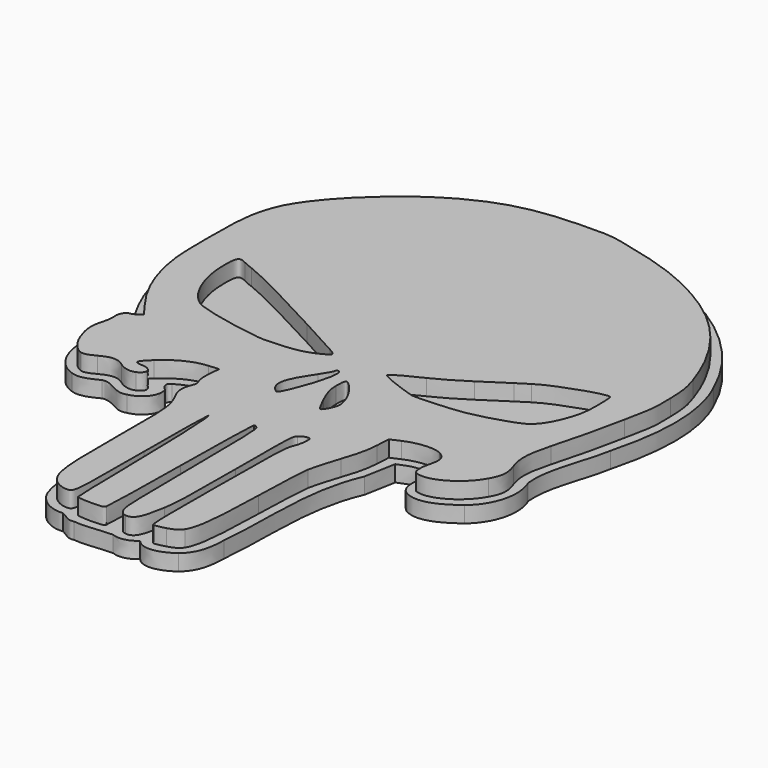
from build123d import *

# Parameters (mm, degrees)
F1_DEPTH = 3
F3_DEPTH = 3


with BuildPart() as f1:
    # F0 (on Top) → F1 (new body)
    with BuildSketch(Plane.XY):
        with BuildLine():
            Line((-14.934392, -11.901192), (-15.095208, -13.848401))
            add(Edge.make_bspline(
                [(-14.895178, -16.642277), (-15.13398, -16.08197), (-15.201631, -15.137025), (-15.095208, -13.848401)],
                knots=[0, 0, 0, 0, 1, 1, 1, 1], degree=3))
            add(Edge.make_bspline(
                [(-14.919957, -18.440631), (-14.603258, -17.659022), (-14.598833, -17.337636), (-14.895178, -16.642277)],
                knots=[0, 0, 0, 0, 1, 1, 1, 1], degree=3))
            add(Edge.make_bspline(
                [(-14.731774, -22.297604), (-15.400604, -20.994426), (-15.460158, -19.773843), (-14.919957, -18.440631)],
                knots=[0, 0, 0, 0, 1, 1, 1, 1], degree=3))
            add(Edge.make_bspline(
                [(-13.280426, -37.244499), (-13.2043, -25.74253), (-13.260445, -25.164417), (-14.731774, -22.297604)],
                knots=[0, 0, 0, 0, 1, 1, 1, 1], degree=3))
            add(Edge.make_bspline(
                [(-11.923829, -53.323196), (-13.138079, -51.3585), (-13.356694, -48.767415), (-13.280426, -37.244499)],
                knots=[0, 0, 0, 0, 1, 1, 1, 1], degree=3))
            add(Edge.make_bspline(
                [(-8.711181, -55.16561), (-9.85685, -55.16561), (-11.294824, -54.340951), (-11.923829, -53.323196)],
                knots=[0, 0, 0, 0, 1, 1, 1, 1], degree=3))
            add(Edge.make_bspline(
                [(-7.266276, -38.881397), (-7.270622, -55.069147), (-7.279174, -55.16561), (-8.711181, -55.16561)],
                knots=[0, 0, 0, 0, 1, 1, 1, 1], degree=3))
            add(Edge.make_bspline(
                [(-7.032836, -24.096579), (-7.159006, -23.970411), (-7.264055, -30.62358), (-7.266276, -38.881397)],
                knots=[0, 0, 0, 0, 1, 1, 1, 1], degree=3))
            add(Edge.make_bspline(
                [(-6.165991, -44.647617), (-6.309441, -32.794408), (-6.660616, -24.468782), (-7.032836, -24.096579)],
                knots=[0, 0, 0, 0, 1, 1, 1, 1], degree=3))
            add(Edge.make_bspline(
                [(-5.85435, -56.007062), (-5.952055, -55.848969), (-6.092294, -50.737219), (-6.165991, -44.647617)],
                knots=[0, 0, 0, 0, 1, 1, 1, 1], degree=3))
            add(Edge.make_bspline(
                [(-3.324665, -56.294499), (-4.618287, -56.294499), (-5.756644, -56.165151), (-5.85435, -56.007062)],
                knots=[0, 0, 0, 0, 1, 1, 1, 1], degree=3))
            add(Edge.make_bspline(
                [(-0.75918, -55.80061), (-0.93801, -56.214399), (-1.35409, -56.294499), (-3.324665, -56.294499)],
                knots=[0, 0, 0, 0, 1, 1, 1, 1], degree=3))
            add(Edge.make_bspline(
                [(-0.370543, -39.026244), (-0.466897, -47.980506), (-0.641784, -55.528971), (-0.75918, -55.80061)],
                knots=[0, 0, 0, 0, 1, 1, 1, 1], degree=3))
            add(Edge.make_bspline(
                [(0.017368, -22.533042), (-0.09963, -22.65004), (-0.27419, -30.071979), (-0.370543, -39.026244)],
                knots=[0, 0, 0, 0, 1, 1, 1, 1], degree=3))
            add(Edge.make_bspline(
                [(0.692797, -22.783023), (0.438309, -22.528538), (0.134367, -22.416044), (0.017368, -22.533042)],
                knots=[0, 0, 0, 0, 1, 1, 1, 1], degree=3))
            add(Edge.make_bspline(
                [(1.27293, -38.711781), (1.167718, -24.854692), (1.107364, -23.197594), (0.692797, -22.783023)],
                knots=[0, 0, 0, 0, 1, 1, 1, 1], degree=3))
            add(Edge.make_bspline(
                [(1.88746, -55.16561), (1.435484, -54.267495), (1.379703, -52.77396), (1.27293, -38.711781)],
                knots=[0, 0, 0, 0, 1, 1, 1, 1], degree=3))
            add(Edge.make_bspline(
                [(3.152115, -56.244337), (2.603368, -56.179316), (2.242849, -55.871798), (1.88746, -55.16561)],
                knots=[0, 0, 0, 0, 1, 1, 1, 1], degree=3))
            add(Edge.make_bspline(
                [(6.068216, -50.850382), (5.356511, -55.192484), (4.68938, -56.426486), (3.152115, -56.244337)],
                knots=[0, 0, 0, 0, 1, 1, 1, 1], degree=3))
            add(Edge.make_bspline(
                [(6.553579, -34.924026), (6.542741, -45.739041), (6.459774, -48.461498), (6.068216, -50.850382)],
                knots=[0, 0, 0, 0, 1, 1, 1, 1], degree=3))
            add(Edge.make_bspline(
                [(7.131096, -21.315524), (6.583314, -21.862471), (6.566265, -22.264214), (6.553579, -34.924026)],
                knots=[0, 0, 0, 0, 1, 1, 1, 1], degree=3))
            add(Edge.make_bspline(
                [(8.401096, -20.672664), (8.01304, -20.716265), (7.44154, -21.005551), (7.131096, -21.315524)],
                knots=[0, 0, 0, 0, 1, 1, 1, 1], degree=3))
            add(Edge.make_bspline(
                [(9.075573, -21.722277), (9.104314, -20.678275), (9.053588, -20.599349), (8.401096, -20.672664)],
                knots=[0, 0, 0, 0, 1, 1, 1, 1], degree=3))
            add(Edge.make_bspline(
                [(8.5206, -24.121166), (8.808743, -23.422666), (9.058479, -22.343166), (9.075573, -21.722277)],
                knots=[0, 0, 0, 0, 1, 1, 1, 1], degree=3))
            add(Edge.make_bspline(
                [(7.895543, -40.663415), (7.988921, -26.566407), (8.037023, -25.293435), (8.5206, -24.121166)],
                knots=[0, 0, 0, 0, 1, 1, 1, 1], degree=3))
            add(Edge.make_bspline(
                [(8.17225, -56.080671), (7.861272, -55.961336), (7.812287, -53.23203), (7.895543, -40.663415)],
                knots=[0, 0, 0, 0, 1, 1, 1, 1], degree=3))
            add(Edge.make_bspline(
                [(10.322809, -55.68149), (9.347833, -55.980792), (8.380081, -56.160421), (8.17225, -56.080671)],
                knots=[0, 0, 0, 0, 1, 1, 1, 1], degree=3))
            add(Edge.make_bspline(
                [(12.62288, -54.270088), (12.214248, -54.942031), (11.696331, -55.259842), (10.322809, -55.68149)],
                knots=[0, 0, 0, 0, 1, 1, 1, 1], degree=3))
            add(Edge.make_bspline(
                [(14.327757, -39.361166), (14.093512, -49.029253), (13.695994, -52.505497), (12.62288, -54.270088)],
                knots=[0, 0, 0, 0, 1, 1, 1, 1], degree=3))
            add(Edge.make_bspline(
                [(14.862311, -28.462686), (14.690534, -29.412127), (14.449984, -34.316444), (14.327757, -39.361166)],
                knots=[0, 0, 0, 0, 1, 1, 1, 1], degree=3))
            add(Edge.make_bspline(
                [(16.470972, -22.818242), (15.757986, -24.973243), (15.034088, -27.513243), (14.862311, -28.462686)],
                knots=[0, 0, 0, 0, 1, 1, 1, 1], degree=3))
            add(Edge.make_bspline(
                [(17.921081, -16.329166), (17.800182, -18.350461), (17.490187, -19.737668), (16.470972, -22.818242)],
                knots=[0, 0, 0, 0, 1, 1, 1, 1], degree=3))
            Line((17.921081, -16.329166), (18.074849, -13.758274))
            Line((18.074849, -13.758274), (19.799639, -12.989001))
            add(Edge.make_bspline(
                [(26.460292, -12.460379), (25.058362, -11.730038), (22.09506, -11.965223), (19.799639, -12.989001)],
                knots=[0, 0, 0, 0, 1, 1, 1, 1], degree=3))
            add(Edge.make_bspline(
                [(27.64899, -15.806208), (28.095717, -14.13594), (27.736662, -13.125308), (26.460292, -12.460379)],
                knots=[0, 0, 0, 0, 1, 1, 1, 1], degree=3))
            add(Edge.make_bspline(
                [(27.803873, -19.535193), (27.206759, -19.300537), (27.140575, -17.707113), (27.64899, -15.806208)],
                knots=[0, 0, 0, 0, 1, 1, 1, 1], degree=3))
            add(Edge.make_bspline(
                [(37.023472, -14.347254), (35.00034, -17.967028), (30.400256, -20.555531), (27.803873, -19.535193)],
                knots=[0, 0, 0, 0, 1, 1, 1, 1], degree=3))
            add(Edge.make_bspline(
                [(37.466132, -9.090688), (38.22356, -11.168013), (38.121235, -12.383146), (37.023472, -14.347254)],
                knots=[0, 0, 0, 0, 1, 1, 1, 1], degree=3))
            add(Edge.make_bspline(
                [(37.768107, -0.696721), (36.679982, -4.725667), (36.607652, -6.736226), (37.466132, -9.090688)],
                knots=[0, 0, 0, 0, 1, 1, 1, 1], degree=3))
            add(Edge.make_bspline(
                [(40.880479, 12.426612), (39.686098, 6.61674), (39.273884, 4.878643), (37.768107, -0.696721)],
                knots=[0, 0, 0, 0, 1, 1, 1, 1], degree=3))
            add(Edge.make_bspline(
                [(41.908781, 21.881056), (42.034461, 18.25552), (41.984677, 17.797781), (40.880479, 12.426612)],
                knots=[0, 0, 0, 0, 1, 1, 1, 1], degree=3))
            add(Edge.make_bspline(
                [(40.876556, 28.366407), (41.662878, 26.02937), (41.793409, 25.209258), (41.908781, 21.881056)],
                knots=[0, 0, 0, 0, 1, 1, 1, 1], degree=3))
            add(Edge.make_bspline(
                [(23.708087, 49.371921), (32.198127, 44.598954), (37.66572, 37.909389), (40.876556, 28.366407)],
                knots=[0, 0, 0, 0, 1, 1, 1, 1], degree=3))
            add(Edge.make_bspline(
                [(5.784238, 55.751469), (14.079189, 53.86466), (18.541902, 52.276269), (23.708087, 49.371921)],
                knots=[0, 0, 0, 0, 1, 1, 1, 1], degree=3))
            add(Edge.make_bspline(
                [(-2.400206, 56.234212), (2.508265, 56.365006), (3.289546, 56.318924), (5.784238, 55.751469)],
                knots=[0, 0, 0, 0, 1, 1, 1, 1], degree=3))
            add(Edge.make_bspline(
                [(-21.144355, 51.655194), (-15.261034, 54.826035), (-10.365517, 56.021964), (-2.400206, 56.234212)],
                knots=[0, 0, 0, 0, 1, 1, 1, 1], degree=3))
            add(Edge.make_bspline(
                [(-40.404294, 32.732758), (-38.283019, 38.402374), (-29.228543, 47.298184), (-21.144355, 51.655194)],
                knots=[0, 0, 0, 0, 1, 1, 1, 1], degree=3))
            add(Edge.make_bspline(
                [(-41.955252, 19.341056), (-41.976757, 26.955344), (-41.712626, 29.235931), (-40.404294, 32.732758)],
                knots=[0, 0, 0, 0, 1, 1, 1, 1], degree=3))
            add(Edge.make_bspline(
                [(-41.311396, 9.095549), (-41.854107, 11.749174), (-41.937568, 13.077281), (-41.955252, 19.341056)],
                knots=[0, 0, 0, 0, 1, 1, 1, 1], degree=3))
            add(Edge.make_bspline(
                [(-35.57826, -3.440325), (-38.690528, 0.671534), (-40.314985, 4.223524), (-41.311396, 9.095549)],
                knots=[0, 0, 0, 0, 1, 1, 1, 1], degree=3))
            Line((-35.57826, -3.440325), (-34.162033, -5.311422))
            Line((-34.162033, -5.311422), (-34.82324, -5.820017))
            add(Edge.make_bspline(
                [(-35.837228, -6.334889), (-35.6432, -6.331446), (-35.186906, -6.099747), (-34.82324, -5.820017)],
                knots=[0, 0, 0, 0, 1, 1, 1, 1], degree=3))
            add(Edge.make_bspline(
                [(-37.135994, -8.378452), (-37.292885, -7.41166), (-36.617372, -6.348769), (-35.837228, -6.334889)],
                knots=[0, 0, 0, 0, 1, 1, 1, 1], degree=3))
            add(Edge.make_bspline(
                [(-37.465969, -10.976578), (-37.199398, -10.05961), (-37.051788, -8.89736), (-37.135994, -8.378452)],
                knots=[0, 0, 0, 0, 1, 1, 1, 1], degree=3))
            add(Edge.make_bspline(
                [(-37.019423, -16.559885), (-37.914335, -14.221335), (-38.021117, -12.886221), (-37.465969, -10.976578)],
                knots=[0, 0, 0, 0, 1, 1, 1, 1], degree=3))
            add(Edge.make_bspline(
                [(-33.823549, -20.328243), (-34.920437, -20.052944), (-36.309484, -18.415073), (-37.019423, -16.559885)],
                knots=[0, 0, 0, 0, 1, 1, 1, 1], degree=3))
            add(Edge.make_bspline(
                [(-31.319129, -19.612573), (-32.616651, -20.292717), (-33.24719, -20.472902), (-33.823549, -20.328243)],
                knots=[0, 0, 0, 0, 1, 1, 1, 1], degree=3))
            add(Edge.make_bspline(
                [(-26.927331, -19.569537), (-28.307206, -18.58698), (-29.382692, -18.597521), (-31.319129, -19.612573)],
                knots=[0, 0, 0, 0, 1, 1, 1, 1], degree=3))
            add(Edge.make_bspline(
                [(-23.776133, -20.171672), (-24.741415, -20.571505), (-25.805833, -20.368116), (-26.927331, -19.569537)],
                knots=[0, 0, 0, 0, 1, 1, 1, 1], degree=3))
            add(Edge.make_bspline(
                [(-24.515067, -17.912277), (-22.546957, -17.912277), (-22.042829, -19.453716), (-23.776133, -20.171672)],
                knots=[0, 0, 0, 0, 1, 1, 1, 1], degree=3))
            add(Edge.make_bspline(
                [(-24.063111, -15.597451), (-25.973245, -17.354284), (-26.082188, -17.912277), (-24.515067, -17.912277)],
                knots=[0, 0, 0, 0, 1, 1, 1, 1], degree=3))
            add(Edge.make_bspline(
                [(-16.828465, -12.053231), (-19.295051, -12.251224), (-21.712573, -13.435558), (-24.063111, -15.597451)],
                knots=[0, 0, 0, 0, 1, 1, 1, 1], degree=3))
            Line((-16.828465, -12.053231), (-14.934392, -11.901192))
        make_face()
        with BuildLine():
            add(Edge.make_bspline(
                [(-2.811582, -10.13458), (-0.955909, -5.719538), (-0.101238, -1.543388), (-1.053349, -1.543388)],
                knots=[0, 0, 0, 0, 1, 1, 1, 1], degree=3))
            add(Edge.make_bspline(
                [(-3.936043, -12.193916), (-3.77044, -12.138716), (-3.264433, -11.212014), (-2.811582, -10.13458)],
                knots=[0, 0, 0, 0, 1, 1, 1, 1], degree=3))
            add(Edge.make_bspline(
                [(-4.832462, -11.537441), (-4.505031, -11.953702), (-4.101642, -12.249116), (-3.936043, -12.193916)],
                knots=[0, 0, 0, 0, 1, 1, 1, 1], degree=3))
            add(Edge.make_bspline(
                [(-2.730542, -4.154584), (-5.520128, -8.314018), (-6.011209, -10.038906), (-4.832462, -11.537441)],
                knots=[0, 0, 0, 0, 1, 1, 1, 1], degree=3))
            add(Edge.make_bspline(
                [(-1.476682, -1.914197), (-1.476682, -2.118142), (-2.040921, -3.126316), (-2.730542, -4.154584)],
                knots=[0, 0, 0, 0, 1, 1, 1, 1], degree=3))
            add(Edge.make_bspline(
                [(-1.053349, -1.543388), (-1.286182, -1.543388), (-1.476682, -1.710252), (-1.476682, -1.914197)],
                knots=[0, 0, 0, 0, 1, 1, 1, 1], degree=3))
        make_face(mode=Mode.SUBTRACT)
        with BuildLine():
            add(Edge.make_bspline(
                [(5.338663, -11.250814), (5.842929, -10.110836), (5.873217, -9.79083), (5.585751, -8.640258)],
                knots=[0, 0, 0, 0, 1, 1, 1, 1], degree=3))
            add(Edge.make_bspline(
                [(4.392185, -12.550055), (4.596653, -12.550055), (5.022568, -11.965398), (5.338663, -11.250814)],
                knots=[0, 0, 0, 0, 1, 1, 1, 1], degree=3))
            add(Edge.make_bspline(
                [(2.809153, -9.823289), (3.475353, -11.323009), (4.187715, -12.550055), (4.392185, -12.550055)],
                knots=[0, 0, 0, 0, 1, 1, 1, 1], degree=3))
            add(Edge.make_bspline(
                [(1.590052, -5.458739), (1.596317, -6.76569), (1.842559, -7.647324), (2.809153, -9.823289)],
                knots=[0, 0, 0, 0, 1, 1, 1, 1], degree=3))
            add(Edge.make_bspline(
                [(2.799193, -3.983036), (1.784669, -3.011059), (1.579542, -3.261407), (1.590052, -5.458739)],
                knots=[0, 0, 0, 0, 1, 1, 1, 1], degree=3))
            add(Edge.make_bspline(
                [(5.585751, -8.640258), (5.213111, -7.148767), (4.017112, -5.149875), (2.799193, -3.983036)],
                knots=[0, 0, 0, 0, 1, 1, 1, 1], degree=3))
        make_face(mode=Mode.SUBTRACT)
        with BuildLine():
            add(Edge.make_bspline(
                [(-9.086223, 0.011543), (-7.335175, 0.465286), (-5.440956, 1.381385), (-5.085218, 1.946546)],
                knots=[0, 0, 0, 0, 1, 1, 1, 1], degree=3))
            add(Edge.make_bspline(
                [(-16.857793, -0.53292), (-15.297347, -0.748687), (-10.805665, -0.434006), (-9.086223, 0.011543)],
                knots=[0, 0, 0, 0, 1, 1, 1, 1], degree=3))
            add(Edge.make_bspline(
                [(-29.066654, 2.041636), (-26.730269, 1.177062), (-21.979984, 0.17534), (-16.857793, -0.53292)],
                knots=[0, 0, 0, 0, 1, 1, 1, 1], degree=3))
            add(Edge.make_bspline(
                [(-34.778905, 14.009162), (-34.778905, 8.582113), (-32.212743, 3.205842), (-29.066654, 2.041636)],
                knots=[0, 0, 0, 0, 1, 1, 1, 1], degree=3))
            add(Edge.make_bspline(
                [(-32.895414, 16.571754), (-34.502858, 17.382951), (-34.778905, 17.007375), (-34.778905, 14.009162)],
                knots=[0, 0, 0, 0, 1, 1, 1, 1], degree=3))
            add(Edge.make_bspline(
                [(-31.110017, 15.819366), (-31.498072, 15.933463), (-32.3015, 16.272036), (-32.895414, 16.571754)],
                knots=[0, 0, 0, 0, 1, 1, 1, 1], degree=3))
            add(Edge.make_bspline(
                [(-13.753349, 7.061237), (-19.782133, 10.404258), (-29.681041, 15.399222), (-31.110017, 15.819366)],
                knots=[0, 0, 0, 0, 1, 1, 1, 1], degree=3))
            add(Edge.make_bspline(
                [(-6.214107, 2.942478), (-6.945802, 3.314207), (-10.33846, 5.167647), (-13.753349, 7.061237)],
                knots=[0, 0, 0, 0, 1, 1, 1, 1], degree=3))
            add(Edge.make_bspline(
                [(-5.085218, 1.946546), (-4.959922, 2.145606), (-5.386719, 2.522136), (-6.214107, 2.942478)],
                knots=[0, 0, 0, 0, 1, 1, 1, 1], degree=3))
        make_face(mode=Mode.SUBTRACT)
        with BuildLine():
            add(Edge.make_bspline(
                [(21.524429, -0.295218), (24.611415, 0.256507), (29.020996, 1.613931), (30.55554, 2.484877)],
                knots=[0, 0, 0, 0, 1, 1, 1, 1], degree=3))
            add(Edge.make_bspline(
                [(11.928873, -0.861977), (12.562228, -1.107916), (19.156503, -0.718427), (21.524429, -0.295218)],
                knots=[0, 0, 0, 0, 1, 1, 1, 1], degree=3))
            add(Edge.make_bspline(
                [(10.094429, -0.278632), (10.948151, -0.539196), (11.773651, -0.801702), (11.928873, -0.861977)],
                knots=[0, 0, 0, 0, 1, 1, 1, 1], degree=3))
            add(Edge.make_bspline(
                [(5.296651, 1.825541), (5.296651, 1.571126), (8.18672, 0.303621), (10.094429, -0.278632)],
                knots=[0, 0, 0, 0, 1, 1, 1, 1], degree=3))
            add(Edge.make_bspline(
                [(10.270507, 4.696658), (7.777314, 3.592032), (5.296651, 2.16009), (5.296651, 1.825541)],
                knots=[0, 0, 0, 0, 1, 1, 1, 1], degree=3))
            add(Edge.make_bspline(
                [(16.409213, 8.23522), (14.371956, 6.882277), (11.609536, 5.289923), (10.270507, 4.696658)],
                knots=[0, 0, 0, 0, 1, 1, 1, 1], degree=3))
            add(Edge.make_bspline(
                [(21.242207, 11.398093), (20.621318, 11.011454), (18.446471, 9.588162), (16.409213, 8.23522)],
                knots=[0, 0, 0, 0, 1, 1, 1, 1], degree=3))
            add(Edge.make_bspline(
                [(23.376651, 12.759535), (22.823594, 12.397379), (21.863096, 11.784728), (21.242207, 11.398093)],
                knots=[0, 0, 0, 0, 1, 1, 1, 1], degree=3))
            add(Edge.make_bspline(
                [(34.852571, 16.69027), (34.222295, 17.320695), (26.086486, 14.534016), (23.376651, 12.759535)],
                knots=[0, 0, 0, 0, 1, 1, 1, 1], degree=3))
            add(Edge.make_bspline(
                [(35.040407, 13.461374), (35.057284, 15.11705), (34.972758, 16.570052), (34.852571, 16.69027)],
                knots=[0, 0, 0, 0, 1, 1, 1, 1], degree=3))
            add(Edge.make_bspline(
                [(34.260116, 8.14836), (34.866437, 10.010908), (35.015585, 11.026462), (35.040407, 13.461374)],
                knots=[0, 0, 0, 0, 1, 1, 1, 1], degree=3))
            add(Edge.make_bspline(
                [(30.55554, 2.484877), (32.039312, 3.327008), (33.335861, 5.309148), (34.260116, 8.14836)],
                knots=[0, 0, 0, 0, 1, 1, 1, 1], degree=3))
        make_face(mode=Mode.SUBTRACT)
    extrude(amount=F1_DEPTH)


with BuildPart() as f3:
    # F2 (on Top) → F3 (new body)
    with BuildSketch(Plane.XY):
        with BuildLine():
            add(Edge.make_bspline(
                [(13.637082, 55.505622), (8.629574, 57.105644), (3.364842, 58.096208), (-1.866615, 58.015768)],
                knots=[0, 0, 0, 0, 1, 1, 1, 1], degree=3))
            add(Edge.make_bspline(
                [(-1.866615, 58.015768), (-12.819504, 58.110246), (-23.630446, 53.768948), (-31.495331, 46.33166)],
                knots=[0, 0, 0, 0, 1, 1, 1, 1], degree=3))
            add(Edge.make_bspline(
                [(-31.495331, 46.33166), (-37.538901, 41.310347), (-43.020709, 34.423462), (-43.407853, 26.226631)],
                knots=[0, 0, 0, 0, 1, 1, 1, 1], degree=3))
            add(Edge.make_bspline(
                [(-43.407853, 26.226631), (-43.924352, 19.826008), (-43.651328, 13.356846), (-42.56284, 7.036623)],
                knots=[0, 0, 0, 0, 1, 1, 1, 1], degree=3))
            add(Edge.make_bspline(
                [(-42.56284, 7.036623), (-41.427183, 2.720429), (-39.208324, -1.210382), (-36.805396, -4.935774)],
                knots=[0, 0, 0, 0, 1, 1, 1, 1], degree=3))
            add(Edge.make_bspline(
                [(-36.805396, -4.935774), (-39.300379, -6.256371), (-38.836488, -9.260906), (-39.277597, -11.60162)],
                knots=[0, 0, 0, 0, 1, 1, 1, 1], degree=3))
            add(Edge.make_bspline(
                [(-39.277597, -11.60162), (-39.693738, -15.440063), (-38.443913, -20.336012), (-34.408712, -21.718074)],
                knots=[0, 0, 0, 0, 1, 1, 1, 1], degree=3))
            add(Edge.make_bspline(
                [(-34.408712, -21.718074), (-32.710331, -22.286957), (-31.08916, -21.422866), (-29.630227, -20.701633)],
                knots=[0, 0, 0, 0, 1, 1, 1, 1], degree=3))
            add(Edge.make_bspline(
                [(-29.630227, -20.701633), (-27.559371, -20.261175), (-26.103142, -22.768095), (-23.987987, -21.988719)],
                knots=[0, 0, 0, 0, 1, 1, 1, 1], degree=3))
            add(Edge.make_bspline(
                [(-23.987987, -21.988719), (-21.914549, -21.661446), (-19.790837, -19.465235), (-20.67353, -17.27197)],
                knots=[0, 0, 0, 0, 1, 1, 1, 1], degree=3))
            add(Edge.make_bspline(
                [(-20.67353, -17.27197), (-21.368693, -16.88453), (-21.958808, -15.709952), (-20.937011, -15.322873)],
                knots=[0, 0, 0, 0, 1, 1, 1, 1], degree=3))
            add(Edge.make_bspline(
                [(-20.937011, -15.322873), (-19.668339, -14.521935), (-18.234381, -14.017595), (-16.767618, -13.726003)],
                knots=[0, 0, 0, 0, 1, 1, 1, 1], degree=3))
            add(Edge.make_bspline(
                [(-16.767618, -13.726003), (-16.118287, -17.141964), (-17.55291, -20.723988), (-15.904267, -23.94939)],
                knots=[0, 0, 0, 0, 1, 1, 1, 1], degree=3))
            add(Edge.make_bspline(
                [(-15.904267, -23.94939), (-14.84628, -26.250774), (-14.742885, -28.767324), (-14.855955, -31.245244)],
                knots=[0, 0, 0, 0, 1, 1, 1, 1], degree=3))
            add(Edge.make_bspline(
                [(-14.855955, -31.245244), (-14.654081, -38.487472), (-15.846273, -45.952081), (-13.803735, -53.016628)],
                knots=[0, 0, 0, 0, 1, 1, 1, 1], degree=3))
            add(Edge.make_bspline(
                [(-13.803735, -53.016628), (-12.910775, -55.403714), (-10.534977, -57.121398), (-7.965262, -56.883953)],
                knots=[0, 0, 0, 0, 1, 1, 1, 1], degree=3))
            add(Edge.make_bspline(
                [(-7.965262, -56.883953), (-6.977256, -57.255758), (-6.258007, -58.267999), (-5.078547, -57.945044)],
                knots=[0, 0, 0, 0, 1, 1, 1, 1], degree=3))
            add(Edge.make_bspline(
                [(-5.078547, -57.945044), (-2.774524, -58.224173), (-0.312674, -57.645304), (1.941181, -57.632505)],
                knots=[0, 0, 0, 0, 1, 1, 1, 1], degree=3))
            add(Edge.make_bspline(
                [(1.941181, -57.632505), (3.397374, -58.240067), (5.100862, -57.725066), (6.226327, -56.689375)],
                knots=[0, 0, 0, 0, 1, 1, 1, 1], degree=3))
            add(Edge.make_bspline(
                [(6.226327, -56.689375), (7.964348, -58.784446), (11.148147, -57.612987), (12.956664, -56.237929)],
                knots=[0, 0, 0, 0, 1, 1, 1, 1], degree=3))
            add(Edge.make_bspline(
                [(12.956664, -56.237929), (15.185319, -54.507114), (15.571995, -51.580083), (15.616609, -48.961177)],
                knots=[0, 0, 0, 0, 1, 1, 1, 1], degree=3))
            add(Edge.make_bspline(
                [(15.616609, -48.961177), (16.581236, -39.510294), (15.120651, -29.53386), (18.993025, -20.560522)],
                knots=[0, 0, 0, 0, 1, 1, 1, 1], degree=3))
            add(Edge.make_bspline(
                [(18.993025, -20.560522), (19.503105, -18.658759), (19.563729, -16.669919), (20.06624, -14.766147)],
                knots=[0, 0, 0, 0, 1, 1, 1, 1], degree=3))
            add(Edge.make_bspline(
                [(20.06624, -14.766147), (21.913201, -13.926508), (24.349182, -13.013423), (26.142837, -14.480064)],
                knots=[0, 0, 0, 0, 1, 1, 1, 1], degree=3))
            add(Edge.make_bspline(
                [(26.142837, -14.480064), (25.959455, -16.557053), (24.898706, -19.509179), (27.116284, -20.853218)],
                knots=[0, 0, 0, 0, 1, 1, 1, 1], degree=3))
            add(Edge.make_bspline(
                [(27.116284, -20.853218), (30.140458, -22.472883), (33.524627, -20.327771), (35.923051, -18.550789)],
                knots=[0, 0, 0, 0, 1, 1, 1, 1], degree=3))
            add(Edge.make_bspline(
                [(35.923051, -18.550789), (39.173339, -15.920763), (40.495457, -11.145507), (38.797086, -7.295525)],
                knots=[0, 0, 0, 0, 1, 1, 1, 1], degree=3))
            add(Edge.make_bspline(
                [(38.797086, -7.295525), (38.303589, -1.978035), (40.91053, 2.901173), (41.813567, 8.017867)],
                knots=[0, 0, 0, 0, 1, 1, 1, 1], degree=3))
            add(Edge.make_bspline(
                [(41.813567, 8.017867), (43.933581, 16.109277), (44.846248, 25.125061), (41.082674, 32.903943)],
                knots=[0, 0, 0, 0, 1, 1, 1, 1], degree=3))
            add(Edge.make_bspline(
                [(41.082674, 32.903943), (36.156406, 44.289835), (25.399102, 52.233632), (13.637082, 55.505622)],
                knots=[0, 0, 0, 0, 1, 1, 1, 1], degree=3))
        make_face()
    extrude(amount=-F3_DEPTH)


solid = Compound([f1.part, f3.part])
